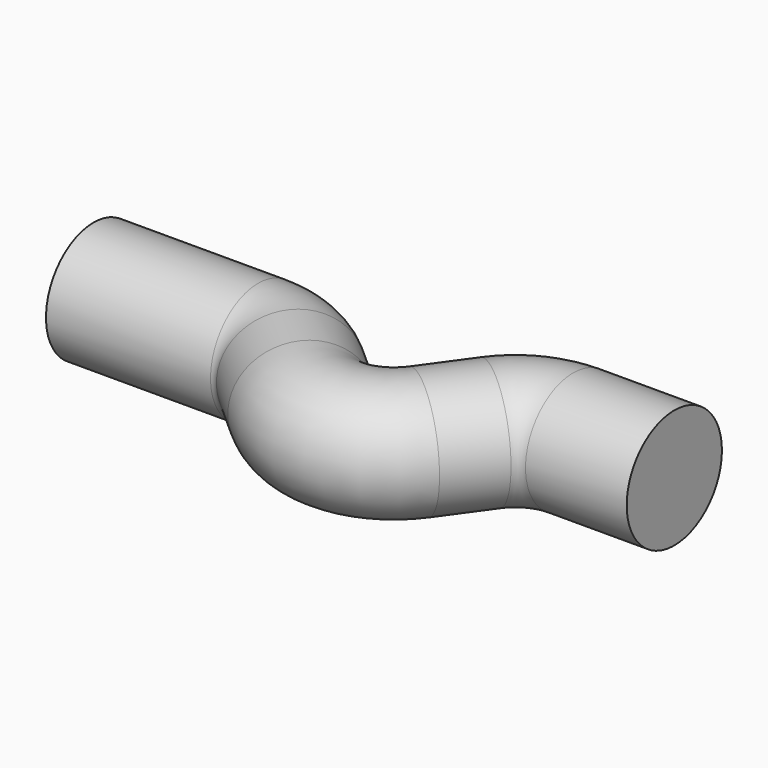
from build123d import *

# Parameters (mm, degrees)
F1_R = 8.2476289187


with BuildPart() as f2:
    # F2: sweep along a path in F0
    with BuildLine(Plane.XY) as f2_path:
        Line((0, 0), (22.8036989728, 0))
        ThreePointArc((22.8036989728, 0), (26.3620800859, -0.654523883), (29.4546521144, -2.5324152293))
        Line((29.4546521144, -2.5324152293), (34.9646809106, -7.4398845729))
        ThreePointArc((34.9646809106, -7.4398845729), (42.7147382317, -9.9117147751), (49.7374816838, -5.8063028062))
        Line((49.7374816838, -5.8063028062), (54.4253336324, 0.7199227064))
        ThreePointArc((54.4253336324, 0.7199227064), (57.9831934265, 3.7836730717), (62.5471812639, 4.8859197024))
        Line((62.5471812639, 4.8859197024), (76.5749181523, 4.8859197024))
    # F1 (on Right) → F2 (sweep)
    with BuildSketch(Plane.YZ):
        with Locations((0, 0.6265509874)):
            Circle(F1_R)
    sweep(path=f2_path.line)


solid = f2.part
